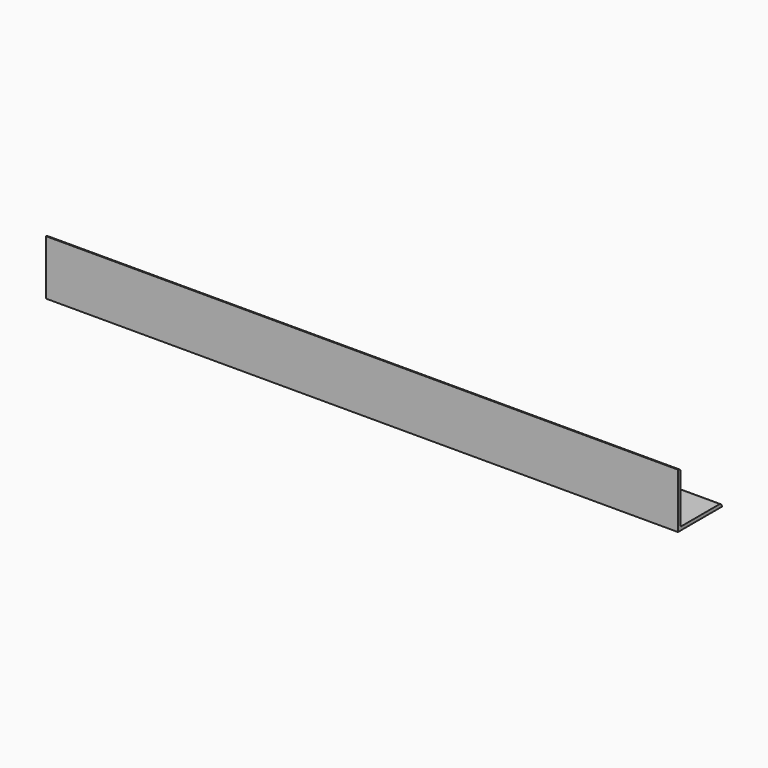
from build123d import *

# Parameters (mm, degrees)
F1_DEPTH = 1168.4


with BuildPart() as f1:
    # F0 (on Right) → F1 (new body)
    with BuildSketch(Plane.YZ):
        with BuildLine():
            Line((0, 101.6), (0, 0))
            Line((0, 0), (101.6, 0))
            ThreePointArc((101.6, 0), (99.740128, 4.490128), (95.25, 6.35))
            Line((95.25, 6.35), (7.62, 6.35))
            ThreePointArc((7.62, 6.35), (6.721974, 6.721974), (6.35, 7.62))
            Line((6.35, 7.62), (6.35, 95.25))
            ThreePointArc((6.35, 95.25), (4.490128, 99.740128), (0, 101.6))
        make_face()
    extrude(amount=F1_DEPTH)


solid = f1.part
